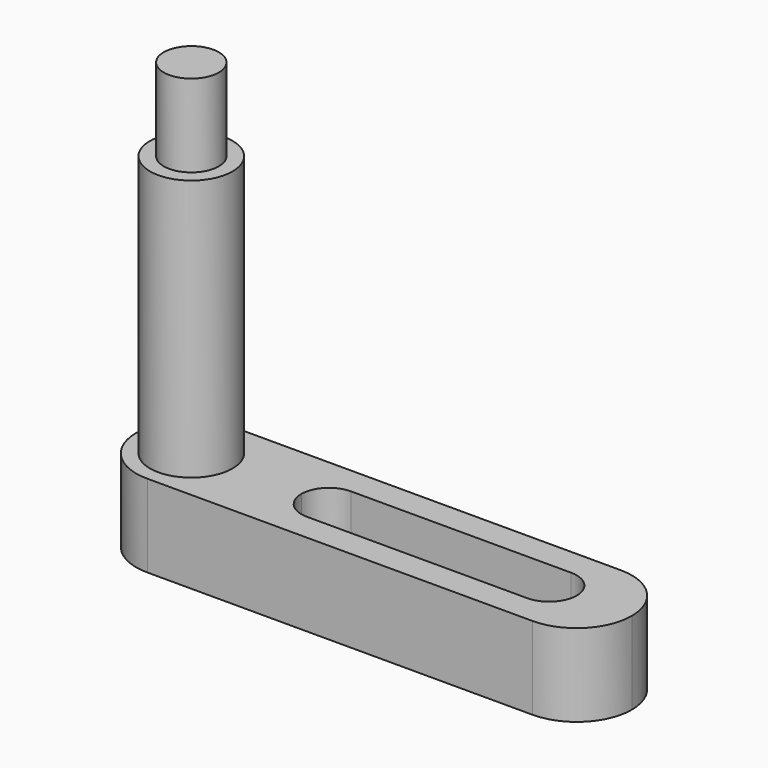
from build123d import *

# Parameters (mm, degrees)
F1_DEPTH = 6
F2_R     = 3
F3_DEPTH = 19
F4_R     = 2
F5_DEPTH = 6


with BuildPart() as f1:
    # F0 (on Top) → F1 (new body)
    with BuildSketch(Plane.XY):
        with BuildLine():
            Line((-28.736944, 4), (-56.736944, 4))
            ThreePointArc((-56.736944, 4), (-59.565371, 2.828427), (-60.736944, 0))
            ThreePointArc((-60.736944, 0), (-59.565371, -2.828427), (-56.736944, -4))
            Line((-56.736944, -4), (-28.736944, -4))
            ThreePointArc((-28.736944, -4), (-25.908517, -2.828427), (-24.736944, 0))
            ThreePointArc((-24.736944, 0), (-25.908517, 2.828427), (-28.736944, 4))
        make_face()
        with BuildLine():
            ThreePointArc((-48.736944, 0), (-48.151158, 1.414214), (-46.736944, 2))
            Line((-46.736944, 2), (-30.736944, 2))
            ThreePointArc((-30.736944, 2), (-29.32273, 1.414214), (-28.736944, 0))
            ThreePointArc((-28.736944, 0), (-29.32273, -1.414214), (-30.736944, -2))
            Line((-30.736944, -2), (-46.736944, -2))
            ThreePointArc((-46.736944, -2), (-48.151158, -1.414214), (-48.736944, 0))
        make_face(mode=Mode.SUBTRACT)
    extrude(amount=F1_DEPTH)

    # F2 (on face) → F3 (join)
    with BuildSketch(Plane.XY.offset(6)):
        with Locations((-56.736944, 0)):
            Circle(F2_R)
    extrude(amount=F3_DEPTH)

    # F4 (on face) → F5 (join)
    with BuildSketch(Plane.XY.offset(25)):
        with Locations((-56.736944, 0)):
            Circle(F4_R)
    extrude(amount=F5_DEPTH)


solid = f1.part
